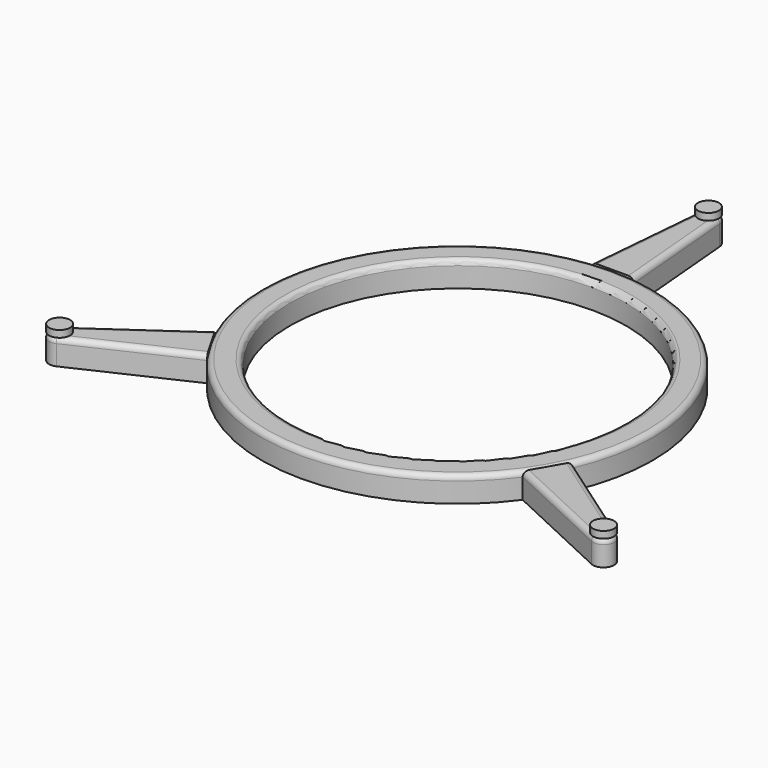
from build123d import *

# Parameters (mm, degrees)
F0_R     = 47.106079
F0_R_2   = 40.513
F1_DEPTH = 6.096
F3_DEPTH = 6.096
F5_COUNT = 3
F6_R     = 2.54
F7_DEPTH = 1.651
F8_R     = 1.27
F8_2_R   = 1.27


with BuildPart() as f1:
    # F0 (on Top) → F1 (new body)
    with BuildSketch(Plane.XY):
        Circle(F0_R)
        with Locations((0, 0.243079)):
            Circle(F0_R_2, mode=Mode.SUBTRACT)
    extrude(amount=F1_DEPTH)

    # F8
    f8_edges = [f1.edges().sort_by_distance(p)[0] for p in [
        (-40.513, 0.243079, 6.096),
        (-47.106079, 0, 6.096),
    ]]
    fillet(f8_edges, radius=F8_R)


with BuildPart() as f3:
    # F2 (on face) → F3 (new body, through all)
    with BuildSketch(Plane(origin=(0, 0, 0), x_dir=(1, 0, 0), z_dir=(0, 0, -1))):
        with BuildLine():
            Line((2.530335, -75.902455), (5.073666, -46.832047))
            Line((5.073666, -46.832047), (-5.073666, -46.832047))
            Line((-5.073666, -46.832047), (-2.530335, -75.902455))
            ThreePointArc((-2.530335, -75.902455), (0, -78.221079), (2.530335, -75.902455))
        make_face()
    extrude(amount=-F3_DEPTH)

    # F8#2
    f8_2_edges = [f3.edges().sort_by_distance(p)[0] for p in [
        (-3.802, 61.367251, 6.096),
        (3.802, 61.367251, 6.096),
    ]]
    fillet(f8_2_edges, radius=F8_2_R)


with BuildPart() as f5_1:
    # F5: instance of F3
    add(f3.part.rotate(Axis((0, 0, 27.786965), (0, 0, 1)), 1 * 360 / F5_COUNT))


with BuildPart() as f5_2:
    # F5: instance of F3
    add(f3.part.rotate(Axis((0, 0, 27.786965), (0, 0, 1)), 2 * 360 / F5_COUNT))


with BuildPart() as f7:
    # F6 (on face) → F7 (new body)
    with BuildSketch(Plane.XY.offset(6.096)):
        with Locations((-65.541737, -37.84054)):
            Circle(F6_R)
        with Locations((65.541737, -37.84054)):
            Circle(F6_R)
        with Locations((0, 75.681079)):
            Circle(F6_R)
    extrude(amount=F7_DEPTH)


solid = Compound([f1.part, f3.part, f5_1.part, f5_2.part, f7.part])
